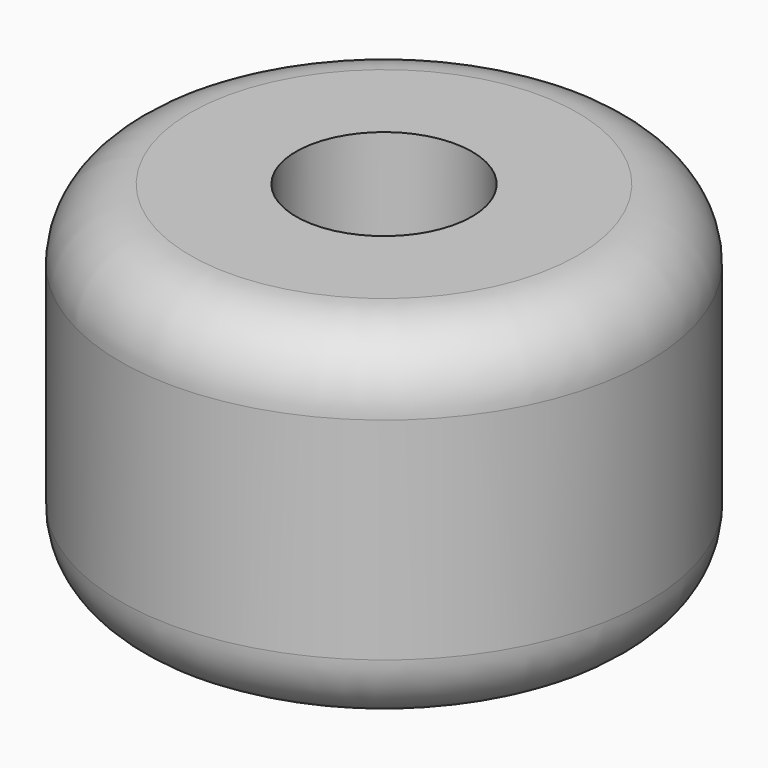
from build123d import *

# Parameters (mm, degrees)
F0_R     = 19.05
F0_R_2   = 6.35
F1_DEPTH = 12.7
F2_R     = 5.08
F3_DEPTH = 12.7
F4_R     = 5.08


with BuildPart() as f1:
    # F0 (on Top) → F1 (new body, symmetric)
    with BuildSketch(Plane.XY):
        Circle(F0_R)
        Circle(F0_R_2, mode=Mode.SUBTRACT)
    extrude(amount=F1_DEPTH, both=True)

    # F2
    f2_edges = [f1.edges().sort_by_distance(p)[0] for p in [
        (-19.05, 0, -12.7),
        (-19.05, 0, 12.7),
    ]]
    fillet(f2_edges, radius=F2_R)

    # F0 (on Top) → F3 (join, symmetric)
    with BuildSketch(Plane.XY):
        Circle(F0_R)
        Circle(F0_R_2, mode=Mode.SUBTRACT)
    extrude(amount=F3_DEPTH, both=True)

    # F4
    f4_edges = [f1.edges().sort_by_distance(p)[0] for p in [
        (-19.05, 0, -12.7),
        (-19.05, 0, 12.7),
    ]]
    fillet(f4_edges, radius=F4_R)


solid = f1.part
